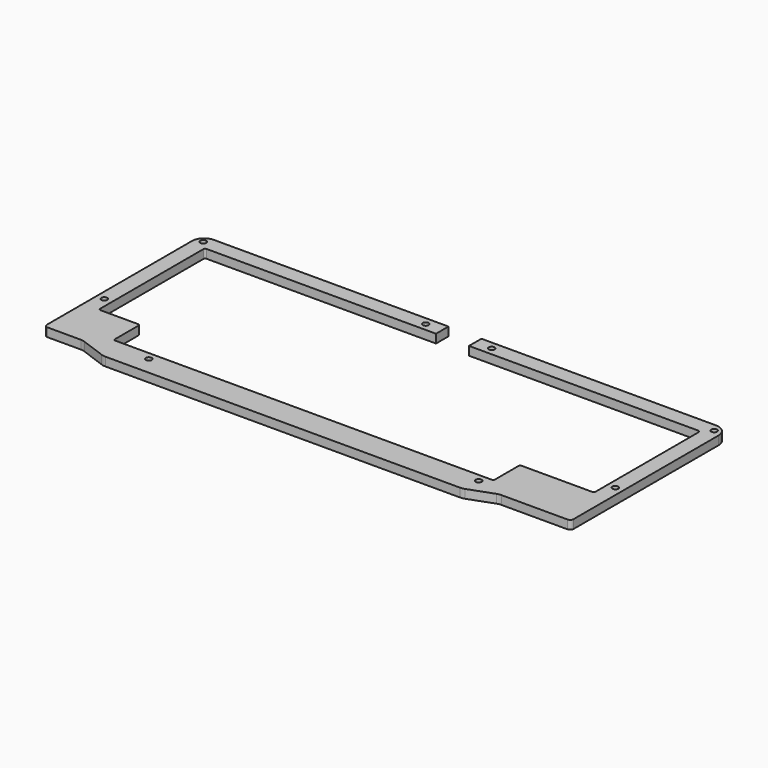
from build123d import *

# Parameters (mm, degrees)
PAD001_DEPTH  = 5
FILLET004_R   = 7
FILLET013_R   = 2
FILLET005_R   = 1
FILLET006_R   = 1.2
SKETCH014_R   = 1.7
HOLE003_DEPTH = 25


with BuildPart() as part:
    # Sketch001 → Pad001 (new body)
    with BuildSketch(Plane.XY):
        Polygon((-9.525, 56.825), (-9.525, 47.825), (-143.075, 47.825), (-143.075, -28.775), (-119.2625, -28.775), (-119.2625, -47.825), (100.2125, -47.825), (100.2125, -28.775), (143.075, -28.775), (143.075, 47.825), (9.525, 47.825), (9.525, 56.825), (152.075, 56.825), (152.075, -56.825), (110.697365, -56.825), (94.2125, -62.825), (-113.2625, -62.825), (-129.747365, -56.825), (-152.075, -56.825), (-152.075, 56.825), align=None)
    extrude(amount=-PAD001_DEPTH)

    # Fillet004
    fillet004_edges = [part.edges().sort_by_distance(p)[0] for p in [
        (152.075, 56.825, -2.5),
        (-152.075, 56.825, -2.5),
        (-129.747365, -56.825, -2.5),
        (-113.2625, -62.825, -2.5),
        (94.2125, -62.825, -2.5),
        (110.697365, -56.825, -2.5),
    ]]
    fillet(fillet004_edges, radius=FILLET004_R)

    # Fillet013
    fillet013_edges = [part.edges().sort_by_distance(p)[0] for p in [
        (-152.075, -56.825, -2.5),
        (152.075, -56.825, -2.5),
    ]]
    fillet(fillet013_edges, radius=FILLET013_R)

    # Fillet005
    fillet005_edges = [part.edges().sort_by_distance(p)[0] for p in [
        (143.075, 47.825, -2.5),
        (-143.075, 47.825, -2.5),
        (-143.075, -28.775, -2.5),
        (-119.2625, -47.825, -2.5),
        (100.2125, -47.825, -2.5),
        (143.075, -28.775, -2.5),
    ]]
    fillet(fillet005_edges, radius=FILLET005_R)

    # Fillet006
    fillet006_edges = [part.edges().sort_by_distance(p)[0] for p in [
        (100.2125, -28.775, -2.5),
        (-119.2625, -28.775, -2.5),
    ]]
    fillet(fillet006_edges, radius=FILLET006_R)

    # Sketch014 (on Face1 of Fillet006) → Hole003 (cut)
    with BuildSketch(Plane.XY):
        with Locations((147.575, 52.325)):
            Circle(SKETCH014_R)
        with Locations((147.575, -19.05)):
            Circle(SKETCH014_R)
        with Locations((95.25, -52.325)):
            Circle(SKETCH014_R)
        with Locations((-95.25, -52.325)):
            Circle(SKETCH014_R)
        with Locations((-147.575, -19.05)):
            Circle(SKETCH014_R)
        with Locations((-147.575, 52.325)):
            Circle(SKETCH014_R)
        with Locations((-19.05, 52.325)):
            Circle(SKETCH014_R)
        with Locations((19.05, 52.325)):
            Circle(SKETCH014_R)
    extrude(amount=-HOLE003_DEPTH, mode=Mode.SUBTRACT)


solid = part.part
